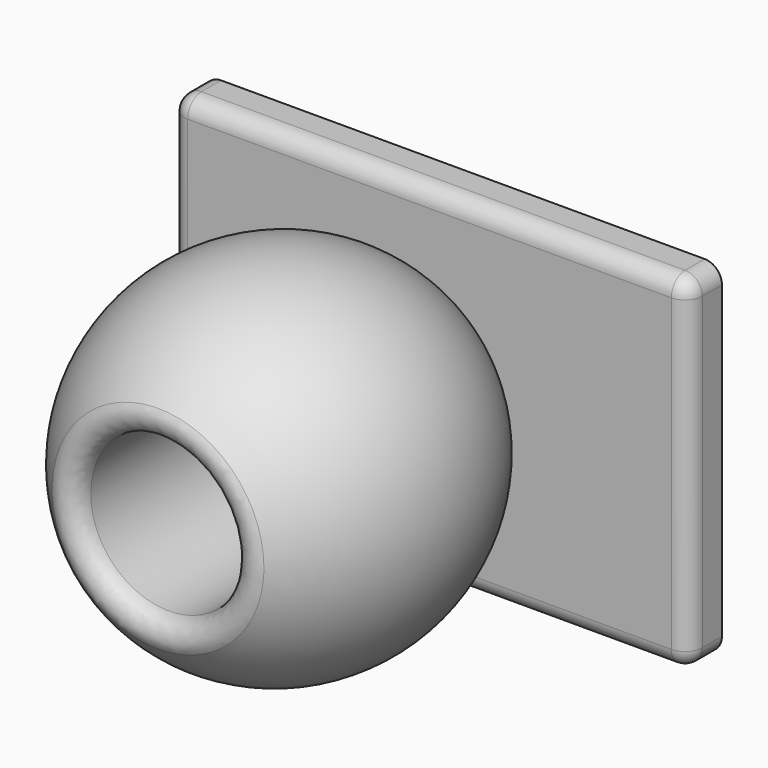
from build123d import *

# Parameters (mm, degrees)
F3_W      = 102.244021371
F3_H      = 12.3342014849
F4_DEPTH  = 25.4
F5_W      = 102.244021371
F5_H      = 12.3342014849
F6_DEPTH  = 25.4
F7_W      = 12.3342014849
F7_H      = 50.8
F8_DEPTH  = 25.4
F9_DEPTH  = 25.4
F10_DEPTH = 25.4
F11_DEPTH = 25.4
F12_R     = 5.08
F13_R     = 5.08


with BuildPart() as f2:
    # F1 (on face) → F2 (revolve)
    with BuildSketch(Plane.XY):
        with BuildLine():
            Line((-36.3534279168, 58.5874468088), (-36.3534279168, -41.7090654373))
            ThreePointArc((-36.3534279168, -41.7090654373), (-6.6386303364, 8.4391906857), (-36.3534279168, 58.5874468088))
        make_face()
    revolve(axis=Axis((-59.3989044428, 8.4391906857, 0), (0, -1, 0)))

    # F13
    f13_edges = [f2.edges().sort_by_distance(p)[0] for p in [
        (-82.444381, -41.709065, 0),
    ]]
    fillet(f13_edges, radius=F13_R)


with BuildPart() as f4:
    # F3 (on Top) → F4 (new body)
    with BuildSketch(Plane.XY):
        with Locations((-30.125326477, 65.4037129134)):
            Rectangle(F3_W, F3_H)
    extrude(amount=F4_DEPTH)

    # F5 (on face) → F6 (join)
    with BuildSketch(Plane(origin=(0, 0, 0), x_dir=(1, 0, 0), z_dir=(0, 0, -1))):
        with Locations((-30.125326477, -65.4037129134)):
            Rectangle(F5_W, F5_H)
    extrude(amount=F6_DEPTH)

    # F7 (on face) → F8 (join)
    with BuildSketch(Plane(origin=(-81.2473371625, 0, 0), x_dir=(0, -1, 0), z_dir=(-1, 0, 0))):
        with Locations((-65.4037129134, 0)):
            Rectangle(F7_W, F7_H)
    extrude(amount=F8_DEPTH)

    # F9 (add): a face of the model
    f9_faces = [f4.faces().sort_by_distance(p)[0] for p in [
        (-106.6473371625, 65.4037129134, 0),
    ]]
    extrude(f9_faces, amount=F9_DEPTH)

    # F10 (add): a face of the model
    f10_faces = [f4.faces().sort_by_distance(p)[0] for p in [
        (-55.525326477, 65.4037129134, -25.4),
    ]]
    extrude(f10_faces, amount=F10_DEPTH)

    # F11 (add): a face of the model
    f11_faces = [f4.faces().sort_by_distance(p)[0] for p in [
        (-55.525326477, 65.4037129134, 25.4),
    ]]
    extrude(f11_faces, amount=F11_DEPTH)

    # F12
    f12_edges = [f4.edges().sort_by_distance(p)[0] for p in [
        (-55.525326, 59.236612, 50.8),
        (-132.047337, 59.236612, 0),
        (-55.525326, 59.236612, -50.8),
        (20.996684, 59.236612, 0),
        (20.996684, 65.403713, -50.8),
        (-132.047337, 65.403713, -50.8),
        (20.996684, 65.403713, 50.8),
        (-132.047337, 65.403713, 50.8),
    ]]
    fillet(f12_edges, radius=F12_R)


solid = Compound([f2.part, f4.part])
